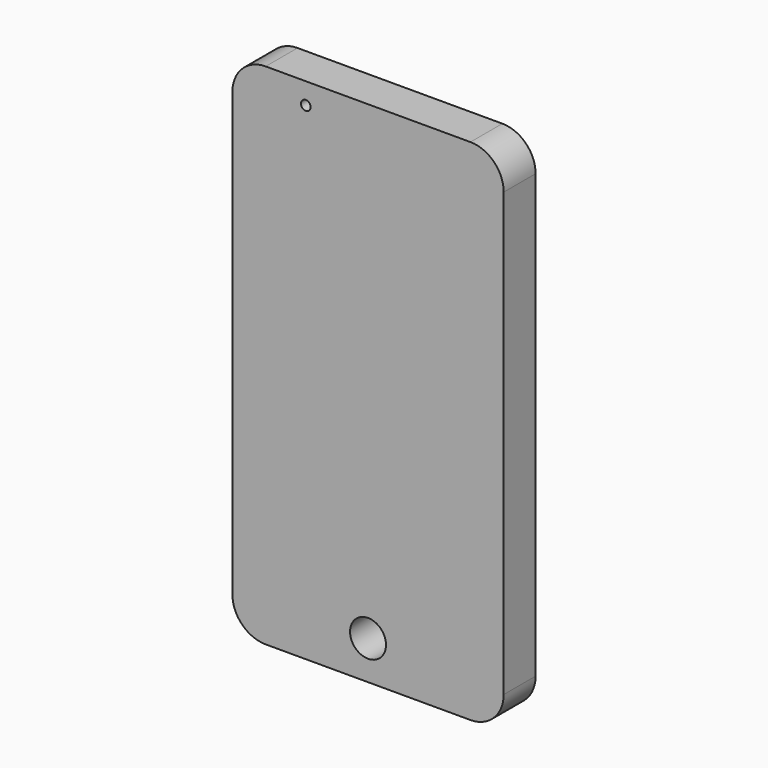
from build123d import *

# Parameters (mm, degrees)
F0_R     = 0.9217746556
F0_W     = 51.8037118018
F0_H     = 75.0324204564
F0_R_2   = 3.4304363285
F1_DEPTH = 1.27
F2_DEPTH = 7.62


with BuildPart() as f1:
    # F0 (on Front) → F1 (new body)
    with BuildSketch(Plane.XZ):
        with BuildLine():
            ThreePointArc((-28.3087114036, 46.0887122899), (-32.7988394641, 44.2288403505), (-34.6587114036, 39.7387122899))
            Line((-34.6587114036, 39.7387122899), (-34.6587114036, 36.3179035485))
            Line((-34.6587114036, 36.3179035485), (17.1450003982, 36.3179035485))
            Line((17.1450003982, 36.3179035485), (17.1450003982, 39.7387122899))
            ThreePointArc((17.1450003982, 39.7387122899), (15.2851284587, 44.2288403505), (10.7950003982, 46.0887122899))
            Line((10.7950003982, 46.0887122899), (-28.3087114036, 46.0887122899))
        make_face()
        with Locations((-20.6477418542, 42.032904923)):
            Circle(F0_R, mode=Mode.SUBTRACT)
        with Locations((-8.7568555027, -1.1983066797)):
            Rectangle(F0_W, F0_H)
        with BuildLine():
            Line((17.1450003982, -38.7145169079), (-34.6587114036, -38.7145169079))
            Line((-34.6587114036, -38.7145169079), (-34.6587114036, -44.7162905872))
            ThreePointArc((-34.6587114036, -44.7162905872), (-32.7988394641, -49.2064186477), (-28.3087114036, -51.0662905872))
            Line((-28.3087114036, -51.0662905872), (10.7950003982, -51.0662905872))
            ThreePointArc((10.7950003982, -51.0662905872), (15.2851284587, -49.2064186477), (17.1450003982, -44.7162905872))
            Line((17.1450003982, -44.7162905872), (17.1450003982, -38.7145169079))
        make_face()
        with Locations((-8.7568555027, -43.6921007931)):
            Circle(F0_R_2, mode=Mode.SUBTRACT)
    extrude(amount=F1_DEPTH)

    # F0 (on Front) → F2 (join)
    with BuildSketch(Plane.XZ):
        with BuildLine():
            ThreePointArc((-28.3087114036, 46.0887122899), (-32.7988394641, 44.2288403505), (-34.6587114036, 39.7387122899))
            Line((-34.6587114036, 39.7387122899), (-34.6587114036, 36.3179035485))
            Line((-34.6587114036, 36.3179035485), (17.1450003982, 36.3179035485))
            Line((17.1450003982, 36.3179035485), (17.1450003982, 39.7387122899))
            ThreePointArc((17.1450003982, 39.7387122899), (15.2851284587, 44.2288403505), (10.7950003982, 46.0887122899))
            Line((10.7950003982, 46.0887122899), (-28.3087114036, 46.0887122899))
        make_face()
        with Locations((-20.6477418542, 42.032904923)):
            Circle(F0_R, mode=Mode.SUBTRACT)
        with Locations((-8.7568555027, -1.1983066797)):
            Rectangle(F0_W, F0_H)
        with BuildLine():
            Line((17.1450003982, -38.7145169079), (-34.6587114036, -38.7145169079))
            Line((-34.6587114036, -38.7145169079), (-34.6587114036, -44.7162905872))
            ThreePointArc((-34.6587114036, -44.7162905872), (-32.7988394641, -49.2064186477), (-28.3087114036, -51.0662905872))
            Line((-28.3087114036, -51.0662905872), (10.7950003982, -51.0662905872))
            ThreePointArc((10.7950003982, -51.0662905872), (15.2851284587, -49.2064186477), (17.1450003982, -44.7162905872))
            Line((17.1450003982, -44.7162905872), (17.1450003982, -38.7145169079))
        make_face()
        with Locations((-8.7568555027, -43.6921007931)):
            Circle(F0_R_2, mode=Mode.SUBTRACT)
    extrude(amount=F2_DEPTH)


solid = f1.part
